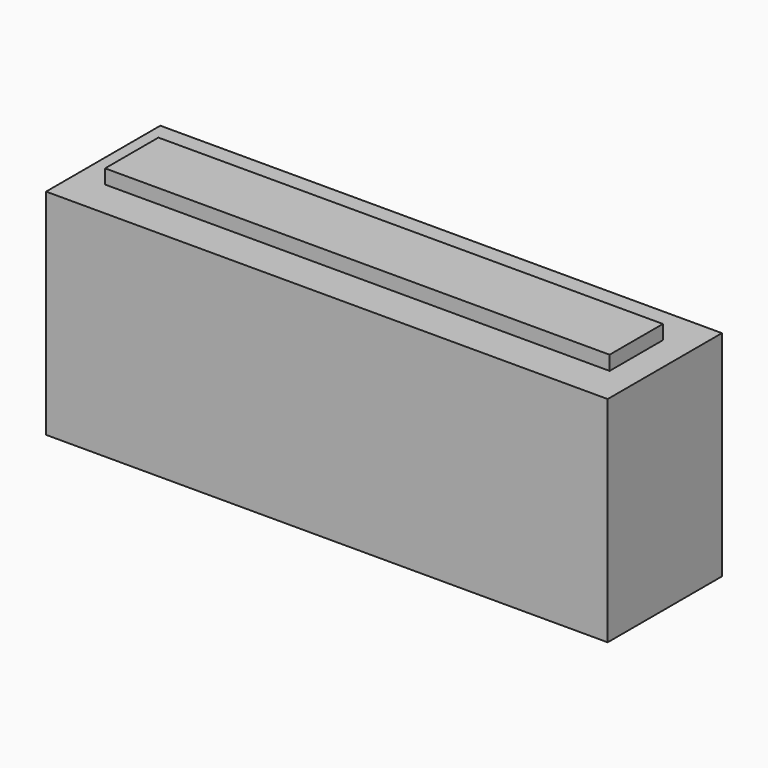
from build123d import *

# Parameters (mm, degrees)
F0_W     = 187.325
F0_H     = 47.625
F1_DEPTH = 76.2
F2_W     = 187.325
F2_H     = 47.625
F2_W_2   = 168.275
F2_H_2   = 22.225
F3_DEPTH = 4.7625


with BuildPart() as f1:
    # F0 (on Top) → F1 (new body)
    with BuildSketch(Plane.XY):
        with Locations((88.9, 19.05)):
            Rectangle(F0_W, F0_H)
    extrude(amount=-F1_DEPTH)

    # F2 (on face) → F3 (cut)
    with BuildSketch(Plane.XY):
        with Locations((88.9, 19.05)):
            Rectangle(F2_W, F2_H)
        with Locations((88.9, 19.05)):
            Rectangle(F2_W_2, F2_H_2, mode=Mode.SUBTRACT)
    extrude(amount=-F3_DEPTH, mode=Mode.SUBTRACT)


solid = f1.part
